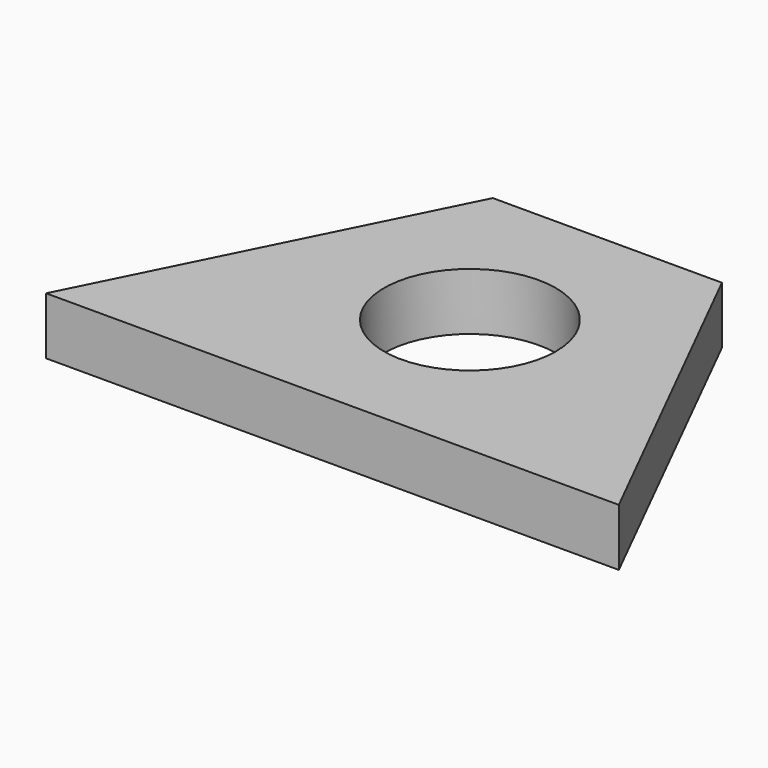
from build123d import *

# Parameters (mm, degrees)
F0_W     = 63.5
F0_H     = 38.1
F1_DEPTH = 6.35
F2_R     = 9.525
F3_DEPTH = 25.4


with BuildPart() as f1:
    # F0 (on Top) → F1 (new body)
    with BuildSketch(Plane.XY):
        with Locations((1.792339, 19.05)):
            Rectangle(F0_W, F0_H)
    extrude(amount=F1_DEPTH)

    # F2 (on face) → F3 (cut)
    with BuildSketch(Plane.XY.offset(6.35)):
        Polygon((-29.957661, 0), (-10.907661, 38.1), (-29.957661, 38.1), align=None)
        Polygon((33.542339, 38.1), (14.492339, 38.1), (33.542339, 0), align=None)
        with Locations((1.792339, 19.05)):
            Circle(F2_R)
    extrude(amount=-F3_DEPTH, mode=Mode.SUBTRACT)


solid = f1.part
